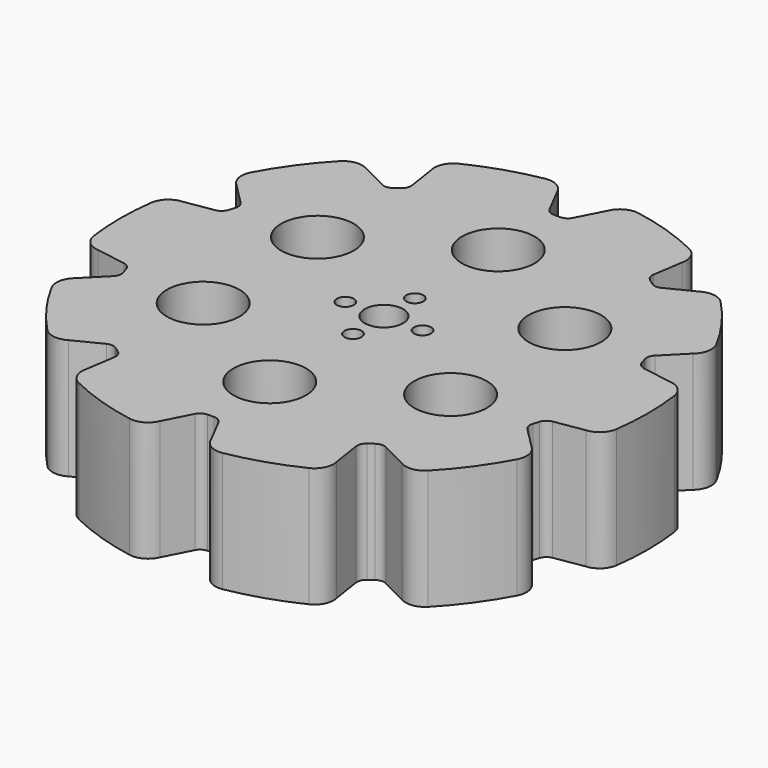
from build123d import *

# Parameters (mm, degrees)
F0_R     = 7.572247
F0_R_2   = 1.775
F0_R_3   = 4
F1_DEPTH = 25


with BuildPart() as f1:
    # F0 (on Top) → F1 (new body)
    with BuildSketch(Plane.XY):
        with BuildLine():
            ThreePointArc((-5.309504, 51.742404), (-7.086811, 53.712393), (-9.705882, 54.136825))
            ThreePointArc((-9.705882, 54.136825), (-16.995935, 52.308108), (-23.968604, 49.502586))
            ThreePointArc((-23.968604, 49.502586), (-25.838002, 47.619762), (-26.117943, 44.981332))
            Line((-26.117943, 44.981332), (-25.161306, 38.789124))
            ThreePointArc((-25.161306, 38.789124), (-25.291556, 37.714888), (-25.962287, 36.865731))
            Line((-25.962287, 36.865731), (-27.038606, 36.083739))
            ThreePointArc((-27.038606, 36.083739), (-28.053469, 35.708241), (-29.115378, 35.916322))
            Line((-29.115378, 35.916322), (-34.708901, 38.739636))
            ThreePointArc((-34.708901, 38.739636), (-37.304703, 39.288716), (-39.673051, 38.092637))
            ThreePointArc((-39.673051, 38.092637), (-44.495935, 32.328189), (-48.487898, 25.960042))
            ThreePointArc((-48.487898, 25.960042), (-48.893577, 23.338), (-47.569223, 21.03892))
            Line((-47.569223, 21.03892), (-43.155599, 16.591616))
            ThreePointArc((-43.155599, 16.591616), (-42.629554, 15.645982), (-42.673064, 14.564754))
            Line((-42.673064, 14.564754), (-43.084182, 13.299464))
            ThreePointArc((-43.084182, 13.299464), (-43.684511, 12.399158), (-44.66592, 11.943325))
            Line((-44.66592, 11.943325), (-50.850677, 10.939644))
            ThreePointArc((-50.850677, 10.939644), (-53.273467, 9.858085), (-54.486463, 7.498356))
            ThreePointArc((-54.486463, 7.498356), (-55, 0), (-54.486463, -7.498356))
            ThreePointArc((-54.486463, -7.498356), (-53.273467, -9.858085), (-50.850677, -10.939644))
            Line((-50.850677, -10.939644), (-44.66592, -11.943325))
            ThreePointArc((-44.66592, -11.943325), (-43.684511, -12.399158), (-43.084182, -13.299464))
            Line((-43.084182, -13.299464), (-42.673064, -14.564754))
            ThreePointArc((-42.673064, -14.564754), (-42.629554, -15.645982), (-43.155599, -16.591616))
            Line((-43.155599, -16.591616), (-47.569223, -21.03892))
            ThreePointArc((-47.569223, -21.03892), (-48.893577, -23.338), (-48.487898, -25.960042))
            ThreePointArc((-48.487898, -25.960042), (-44.495935, -32.328189), (-39.673051, -38.092637))
            ThreePointArc((-39.673051, -38.092637), (-37.304703, -39.288716), (-34.708901, -38.739636))
            Line((-34.708901, -38.739636), (-29.115378, -35.916322))
            ThreePointArc((-29.115378, -35.916322), (-28.053469, -35.708241), (-27.038606, -36.083739))
            Line((-27.038606, -36.083739), (-25.962287, -36.865731))
            ThreePointArc((-25.962287, -36.865731), (-25.291556, -37.714888), (-25.161306, -38.789124))
            Line((-25.161306, -38.789124), (-26.117943, -44.981332))
            ThreePointArc((-26.117943, -44.981332), (-25.838002, -47.619762), (-23.968604, -49.502586))
            ThreePointArc((-23.968604, -49.502586), (-16.995935, -52.308108), (-9.705882, -54.136825))
            ThreePointArc((-9.705882, -54.136825), (-7.086811, -53.712393), (-5.309504, -51.742404))
            Line((-5.309504, -51.742404), (-2.443751, -46.170505))
            ThreePointArc((-2.443751, -46.170505), (-1.706956, -45.377989), (-0.665202, -45.085252))
            Line((-0.665202, -45.085252), (0.665202, -45.085252))
            ThreePointArc((0.665202, -45.085252), (1.706956, -45.377989), (2.443751, -46.170505))
            Line((2.443751, -46.170505), (5.309504, -51.742404))
            ThreePointArc((5.309504, -51.742404), (7.086811, -53.712393), (9.705882, -54.136825))
            ThreePointArc((9.705882, -54.136825), (16.995935, -52.308108), (23.968604, -49.502586))
            ThreePointArc((23.968604, -49.502586), (25.838002, -47.619762), (26.117943, -44.981332))
            Line((26.117943, -44.981332), (25.161306, -38.789124))
            ThreePointArc((25.161306, -38.789124), (25.291556, -37.714888), (25.962287, -36.865731))
            Line((25.962287, -36.865731), (27.038606, -36.083739))
            ThreePointArc((27.038606, -36.083739), (28.053469, -35.708241), (29.115378, -35.916322))
            Line((29.115378, -35.916322), (34.708901, -38.739636))
            ThreePointArc((34.708901, -38.739636), (37.304703, -39.288716), (39.673051, -38.092637))
            ThreePointArc((39.673051, -38.092637), (44.495935, -32.328189), (48.487898, -25.960042))
            ThreePointArc((48.487898, -25.960042), (48.893577, -23.338), (47.569223, -21.03892))
            Line((47.569223, -21.03892), (43.155599, -16.591616))
            ThreePointArc((43.155599, -16.591616), (42.629554, -15.645982), (42.673064, -14.564754))
            Line((42.673064, -14.564754), (43.084182, -13.299464))
            ThreePointArc((43.084182, -13.299464), (43.684511, -12.399158), (44.66592, -11.943325))
            Line((44.66592, -11.943325), (50.850677, -10.939644))
            ThreePointArc((50.850677, -10.939644), (53.273467, -9.858085), (54.486463, -7.498356))
            ThreePointArc((54.486463, -7.498356), (55, 0), (54.486463, 7.498356))
            ThreePointArc((54.486463, 7.498356), (53.273467, 9.858085), (50.850677, 10.939644))
            Line((50.850677, 10.939644), (44.66592, 11.943325))
            ThreePointArc((44.66592, 11.943325), (43.684511, 12.399158), (43.084182, 13.299464))
            Line((43.084182, 13.299464), (42.673064, 14.564754))
            ThreePointArc((42.673064, 14.564754), (42.629554, 15.645982), (43.155599, 16.591616))
            Line((43.155599, 16.591616), (47.569223, 21.03892))
            ThreePointArc((47.569223, 21.03892), (48.893577, 23.338), (48.487898, 25.960042))
            ThreePointArc((48.487898, 25.960042), (44.495935, 32.328189), (39.673051, 38.092637))
            ThreePointArc((39.673051, 38.092637), (37.304703, 39.288716), (34.708901, 38.739636))
            Line((34.708901, 38.739636), (29.115378, 35.916322))
            ThreePointArc((29.115378, 35.916322), (28.053469, 35.708241), (27.038606, 36.083739))
            Line((27.038606, 36.083739), (25.962287, 36.865731))
            ThreePointArc((25.962287, 36.865731), (25.291556, 37.714888), (25.161306, 38.789124))
            Line((25.161306, 38.789124), (26.117943, 44.981332))
            ThreePointArc((26.117943, 44.981332), (25.838002, 47.619762), (23.968604, 49.502586))
            ThreePointArc((23.968604, 49.502586), (16.995935, 52.308108), (9.705882, 54.136825))
            ThreePointArc((9.705882, 54.136825), (7.086811, 53.712393), (5.309504, 51.742404))
            Line((5.309504, 51.742404), (2.443751, 46.170505))
            ThreePointArc((2.443751, 46.170505), (1.706956, 45.377989), (0.665202, 45.085252))
            Line((0.665202, 45.085252), (-0.665202, 45.085252))
            ThreePointArc((-0.665202, 45.085252), (-1.706956, 45.377989), (-2.443751, 46.170505))
            Line((-2.443751, 46.170505), (-5.309504, 51.742404))
        make_face()
        with Locations((-25.776053, -14.881811)):
            Circle(F0_R, mode=Mode.SUBTRACT)
        with Locations((-7.996251, -0.088927)):
            Circle(F0_R_2, mode=Mode.SUBTRACT)
        with Locations((0, -29.763622)):
            Circle(F0_R, mode=Mode.SUBTRACT)
        with Locations((25.776053, -14.881811)):
            Circle(F0_R, mode=Mode.SUBTRACT)
        with Locations((0.053749, -8.138927)):
            Circle(F0_R_2, mode=Mode.SUBTRACT)
        with Locations((0.053749, -0.088927)):
            Circle(F0_R_3, mode=Mode.SUBTRACT)
        with Locations((8.103749, -0.088927)):
            Circle(F0_R_2, mode=Mode.SUBTRACT)
        with Locations((-25.776053, 14.881811)):
            Circle(F0_R, mode=Mode.SUBTRACT)
        with Locations((0.053749, 7.961073)):
            Circle(F0_R_2, mode=Mode.SUBTRACT)
        with Locations((25.776053, 14.881811)):
            Circle(F0_R, mode=Mode.SUBTRACT)
        with Locations((0, 29.763622)):
            Circle(F0_R, mode=Mode.SUBTRACT)
    extrude(amount=F1_DEPTH)


solid = f1.part
